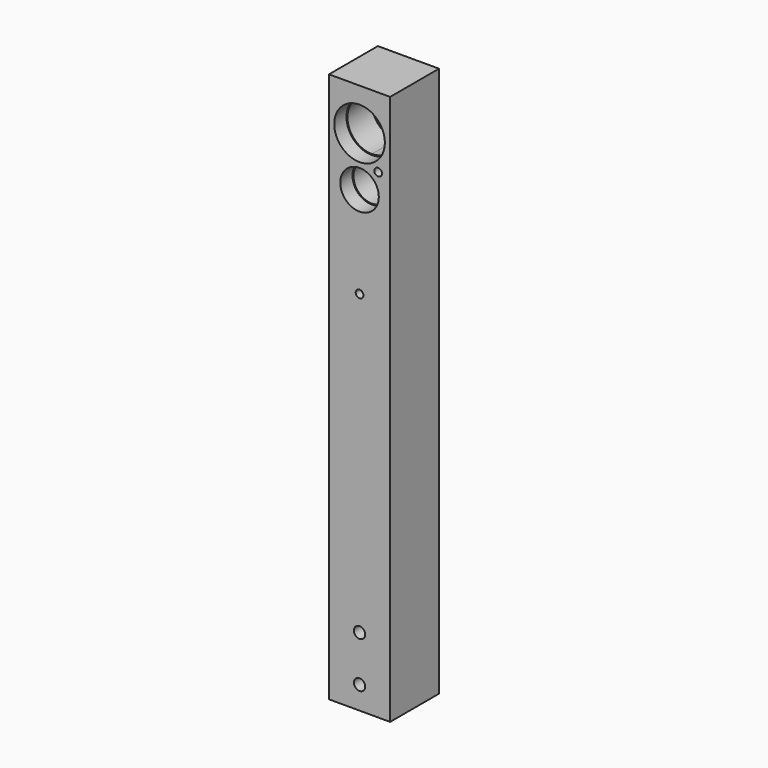
from build123d import *

# Parameters (mm, degrees)
F0_W      = 50.8
F0_H      = 457.2
F1_DEPTH  = 50.8
F2_R      = 4.699
F3_DEPTH  = 50.801
F5_DEPTH  = 50.801
F7_R      = 21.0312
F8_DEPTH  = 12.7
F9_R      = 16.002
F10_DEPTH = 12.7
F11_R     = 16.002
F12_DEPTH = 12.7
F13_R     = 3.175
F14_DEPTH = 12.7
F6_R      = 21.0312
F15_DEPTH = 12.7
F16_DEPTH = 12.7


with BuildPart() as f1:
    # F0 (on Front) → F1 (new body)
    with BuildSketch(Plane.XZ):
        Rectangle(F0_W, F0_H)
    extrude(amount=F1_DEPTH)

    # F2 (on face) → F3 (cut, through all)
    with BuildSketch(Plane.XZ.offset(50.8)):
        with Locations((0, -171.45)):
            Circle(F2_R)
        with Locations((0, -209.55)):
            Circle(F2_R)
    extrude(amount=-F3_DEPTH, mode=Mode.SUBTRACT)

    # F4 (on face) → F5 (cut, through all)
    with BuildSketch(Plane.XZ.offset(50.8)):
        with BuildLine():
            ThreePointArc((0, 173.43755), (14.310038, 179.364962), (20.23745, 193.675))
            ThreePointArc((20.23745, 193.675), (14.310038, 207.985038), (0, 213.91245))
            Line((0, 213.91245), (0, 193.675))
            Line((0, 193.675), (0, 173.43755))
        make_face()
        with BuildLine():
            ThreePointArc((15.20825, 152.4), (10.753857, 163.153857), (0, 167.60825))
            ThreePointArc((0, 167.60825), (-10.753857, 141.646143), (15.20825, 152.4))
        make_face()
        with BuildLine():
            Line((0, 193.675), (0, 213.91245))
            ThreePointArc((0, 213.91245), (-20.23745, 193.675), (0, 173.43755))
            Line((0, 173.43755), (0, 193.675))
        make_face()
    extrude(amount=-F5_DEPTH, mode=Mode.SUBTRACT)

    # F7 (on face) → F8 (cut)
    with BuildSketch(Plane(origin=(0, 0, 0), x_dir=(-1, 0, 0), z_dir=(0, 1, 0))):
        with Locations((0, 193.675)):
            Circle(F7_R)
    extrude(amount=-F8_DEPTH, mode=Mode.SUBTRACT)

    # F9 (on face) → F10 (cut)
    with BuildSketch(Plane.XZ.offset(50.8)):
        with Locations((0, 152.4)):
            Circle(F9_R)
    extrude(amount=-F10_DEPTH, mode=Mode.SUBTRACT)

    # F11 (on face) → F12 (cut)
    with BuildSketch(Plane(origin=(0, 0, 0), x_dir=(-1, 0, 0), z_dir=(0, 1, 0))):
        with Locations((0, 152.4)):
            Circle(F11_R)
    extrude(amount=-F12_DEPTH, mode=Mode.SUBTRACT)

    # F13 (on face) → F14 (cut)
    with BuildSketch(Plane.XZ.offset(50.8)):
        with Locations((15.478125, 170.32224)):
            Circle(F13_R)
        with Locations((0, 76.201982)):
            Circle(F13_R)
    extrude(amount=-F14_DEPTH, mode=Mode.SUBTRACT)

    # F6 (on face) → F15 (cut)
    with BuildSketch(Plane.XZ.offset(50.8)):
        with Locations((0, 193.675)):
            Circle(F6_R)
    extrude(amount=-F15_DEPTH, mode=Mode.SUBTRACT)

    # F6 (on face) → F16 (cut)
    with BuildSketch(Plane.XZ.offset(50.8)):
        with Locations((0, 193.675)):
            Circle(F6_R)
    extrude(amount=-F16_DEPTH, mode=Mode.SUBTRACT)


solid = f1.part
